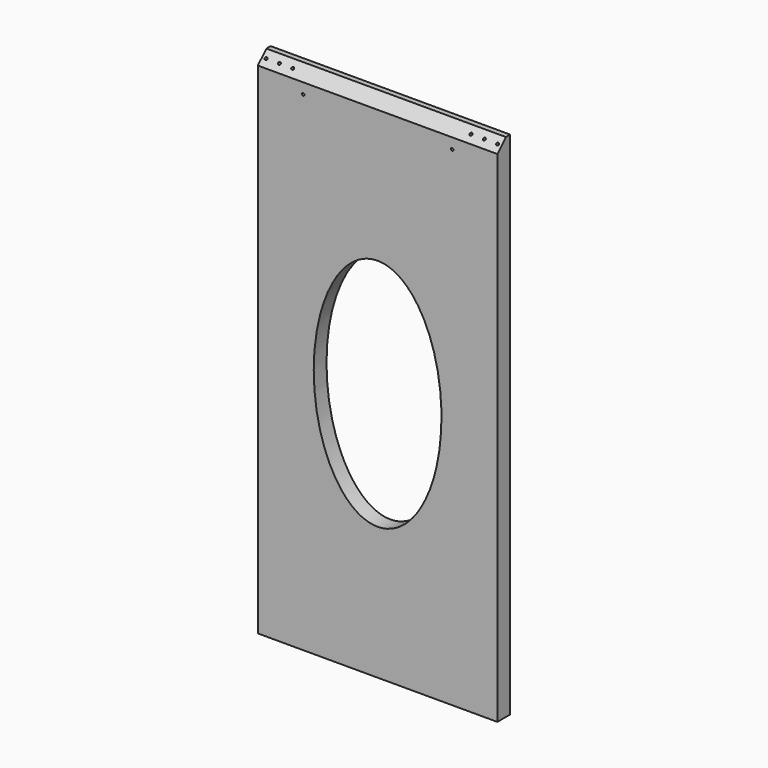
from build123d import *

# Parameters (mm, degrees)
F0_W     = 571.5
F0_H     = 1218.2094
F1_DEPTH = 38.1
F2_SIZE  = 25.4
F4_D     = 6.35
F4_DEPTH = 19.05
F4_TIP   = 1.9077324654
F6_DEPTH = 38.101
F8_D     = 6.35


with BuildPart() as f1:
    # F0 (on Front) → F1 (new body)
    with BuildSketch(Plane.XZ):
        with Locations((285.75, 609.1047)):
            Rectangle(F0_W, F0_H)
    extrude(amount=F1_DEPTH)

    # F2
    f2_edges = [f1.edges().sort_by_distance(p)[0] for p in [
        (285.75, -38.1, 1218.2094),
    ]]
    chamfer(f2_edges, length=F2_SIZE)

    # F4
    with Locations(Plane(origin=(0, -615.4547, 615.4547), x_dir=(1, 0, 0), z_dir=(0, -0.7071067812, 0.7071067812))):
        with Locations((9.525, 834.463359282), (41.275, 834.463359282), (73.025, 834.463359282), (498.475, 834.463359282), (530.225, 834.463359282), (561.975, 834.463359282)):
            Hole(F4_D / 2, depth=F4_DEPTH)
            with Locations((0, 0, -(F4_DEPTH + F4_TIP / 2))):  # 118° drill point
                Cone(0, F4_D / 2, F4_TIP, mode=Mode.SUBTRACT)

    # F5 (on face) → F6 (cut, through all)
    with BuildSketch(Plane.XZ.offset(38.1)):
        with BuildLine():
            add(Edge.make_bspline(
                [(285.75, 875.8047), (133.35, 875.8047), (133.35, 596.4047)],
                knots=[0, 0, 0, 1.5707963268, 1.5707963268, 1.5707963268], degree=2, weights=[1, 0.7071067812, 1]))
            Line((133.35, 596.4047), (285.75, 596.4047))
            Line((285.75, 596.4047), (285.75, 875.8047))
        make_face()
        with BuildLine():
            Line((285.75, 875.8047), (285.75, 596.4047))
            Line((285.75, 596.4047), (438.15, 596.4047))
            add(Edge.make_bspline(
                [(438.15, 596.4047), (438.15, 875.8047), (285.75, 875.8047)],
                knots=[4.7123889804, 4.7123889804, 4.7123889804, 6.2831853072, 6.2831853072, 6.2831853072], degree=2, weights=[1, 0.7071067812, 1]))
        make_face()
        with BuildLine():
            Line((438.15, 596.4047), (285.75, 596.4047))
            Line((285.75, 596.4047), (285.75, 317.0047))
            add(Edge.make_bspline(
                [(285.75, 317.0047), (438.15, 317.0047), (438.15, 596.4047)],
                knots=[3.1415926536, 3.1415926536, 3.1415926536, 4.7123889804, 4.7123889804, 4.7123889804], degree=2, weights=[1, 0.7071067812, 1]))
        make_face()
        with BuildLine():
            Line((285.75, 596.4047), (133.35, 596.4047))
            add(Edge.make_bspline(
                [(133.35, 596.4047), (133.35, 317.0047), (285.75, 317.0047)],
                knots=[1.5707963268, 1.5707963268, 1.5707963268, 3.1415926536, 3.1415926536, 3.1415926536], degree=2, weights=[1, 0.7071067812, 1]))
            Line((285.75, 317.0047), (285.75, 596.4047))
        make_face()
    extrude(amount=-F6_DEPTH, mode=Mode.SUBTRACT)

    # F8 (through all)
    with Locations(Plane(origin=(0, 0, 0), x_dir=(-1, 0, 0), z_dir=(0, 1, 0))):
        with Locations((-463.55, 1167.4094), (-107.95, 1167.4094)):
            Hole(F8_D / 2)


solid = f1.part
